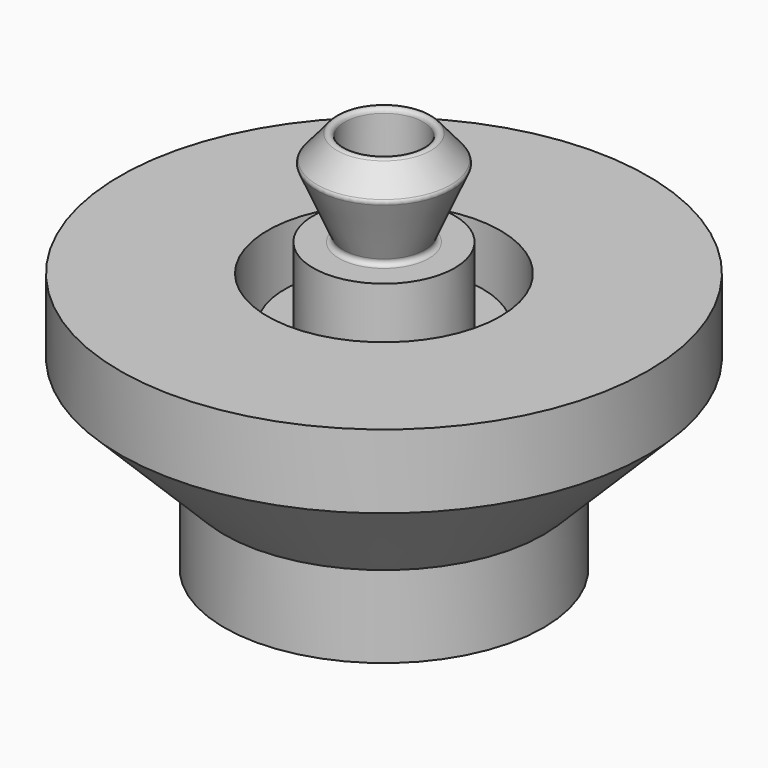
from build123d import *

# Parameters (mm, degrees)
F0_R     = 34.094364
F1_DEPTH = 25.4
F2_R     = 24.363189
F3_DEPTH = 25.4
F6_R     = 1.524


with BuildPart() as f1:
    # F0 (on Top) → F1 (new body)
    with BuildSketch(Plane.XY):
        Circle(F0_R)
    extrude(amount=F1_DEPTH)

    # F2 (on face) → F3 (join)
    with BuildSketch(Plane.XY.offset(25.4)):
        Circle(F2_R)
    extrude(amount=F3_DEPTH)

    # F4 (on Right) → F5 (revolve)
    with BuildSketch(Plane.YZ):
        Polygon((13.484687, 68.045951), (12.86231, 50.204642), (23.65008, 74.892037), (13.484687, 86.924553), align=None)
    revolve(axis=Axis((0, 0, 50.8), (0, 0, 1)))

    # F6
    f6_edges = [f1.edges().sort_by_distance(p)[0] for p in [
        (0, -23.65008, 74.892037),
        (0, -13.484687, 86.924553),
        (0, 18.567383, 80.908295),
        (0, -13.122466, 50.8),
        (0, 18.386273, 62.846018),
    ]]
    fillet(f6_edges, radius=F6_R)


with BuildPart() as f8:
    # F7 (on Front) → F8 (revolve)
    with BuildSketch(Plane.XZ):
        Polygon((54.944317, -20.084962), (90.865342, 15.836063), (90.865342, 41.236063), (40.065342, 41.236063), (40.065342, -48.232985), (54.944317, -48.263822), align=None)
    revolve(axis=Axis((0, 0, 0), (0, 0, -1)))


solid = Compound([f1.part, f8.part])
